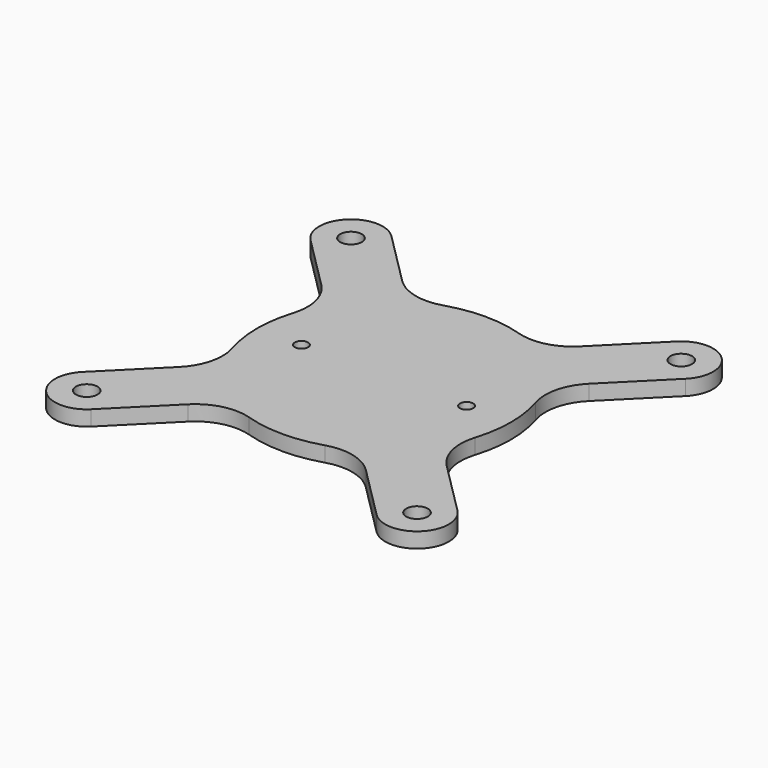
from build123d import *

# Parameters (mm, degrees)
F0_R     = 4.25
F0_R_2   = 2.6
F1_DEPTH = 6
F2_R     = 20


with BuildPart() as f1:
    # F0 (on Top) → F1 (new body)
    with BuildSketch(Plane.XY):
        with BuildLine():
            Line((56.161165, 73.838835), (25.393825, 43.071495))
            ThreePointArc((25.393825, 43.071495), (0, 50), (-25.393825, 43.071495))
            Line((-25.393825, 43.071495), (-56.161165, 73.838835))
            ThreePointArc((-56.161165, 73.838835), (-73.838835, 73.838835), (-73.838835, 56.161165))
            Line((-73.838835, 56.161165), (-43.071495, 25.393825))
            ThreePointArc((-43.071495, 25.393825), (-50, 0), (-43.071495, -25.393825))
            Line((-43.071495, -25.393825), (-73.838835, -56.161165))
            ThreePointArc((-73.838835, -56.161165), (-73.838835, -73.838835), (-56.161165, -73.838835))
            Line((-56.161165, -73.838835), (-25.393825, -43.071495))
            ThreePointArc((-25.393825, -43.071495), (0, -50), (25.393825, -43.071495))
            Line((25.393825, -43.071495), (56.161165, -73.838835))
            ThreePointArc((56.161165, -73.838835), (73.838835, -73.838835), (73.838835, -56.161165))
            Line((73.838835, -56.161165), (43.071495, -25.393825))
            ThreePointArc((43.071495, -25.393825), (50, 0), (43.071495, 25.393825))
            Line((43.071495, 25.393825), (73.838835, 56.161165))
            ThreePointArc((73.838835, 56.161165), (73.838835, 73.838835), (56.161165, 73.838835))
        make_face()
        with Locations((-65, -65)):
            Circle(F0_R, mode=Mode.SUBTRACT)
        with Locations((65, -65)):
            Circle(F0_R, mode=Mode.SUBTRACT)
        with Locations((-32.5, 0)):
            Circle(F0_R_2, mode=Mode.SUBTRACT)
        with Locations((-65, 65)):
            Circle(F0_R, mode=Mode.SUBTRACT)
        with Locations((32.5, 0)):
            Circle(F0_R_2, mode=Mode.SUBTRACT)
        with Locations((65, 65)):
            Circle(F0_R, mode=Mode.SUBTRACT)
    extrude(amount=F1_DEPTH)

    # F2
    f2_edges = [f1.edges().sort_by_distance(p)[0] for p in [
        (-25.393825, -43.071495, 3),
        (25.393825, -43.071495, 3),
        (43.071495, -25.393825, 3),
        (43.071495, 25.393825, 3),
        (25.393825, 43.071495, 3),
        (-25.393825, 43.071495, 3),
        (-43.071495, 25.393825, 3),
        (-43.071495, -25.393825, 3),
    ]]
    fillet(f2_edges, radius=F2_R)


solid = f1.part
